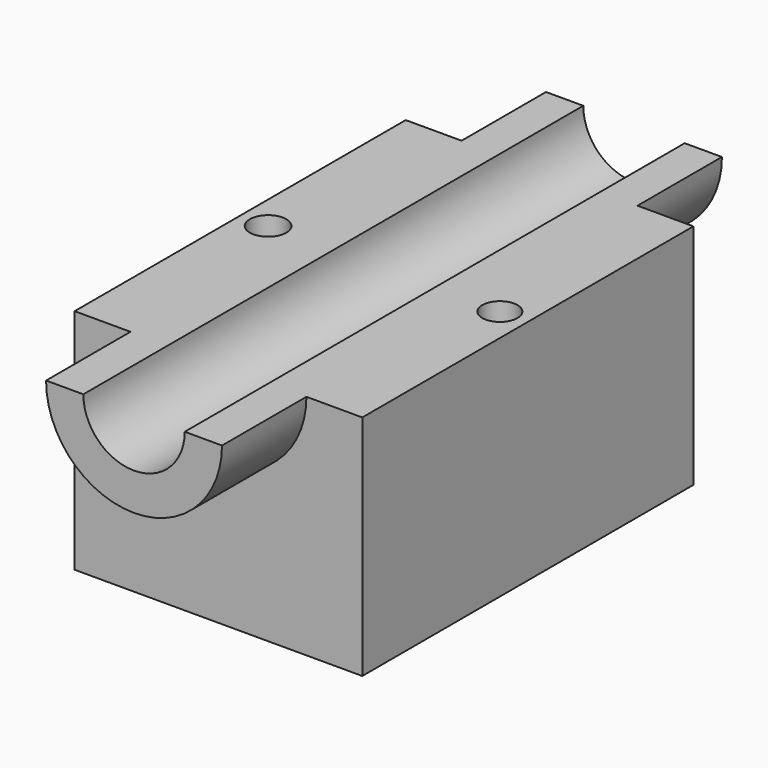
from build123d import *

# Parameters (mm, degrees)
F1_DEPTH = 134.62
F2_DEPTH = 89.154
F3_R     = 7.871318
F5_DEPTH = 98.0821
F4_R     = 7.580211
F6_DEPTH = 98.0821


with BuildPart() as f1:
    # F0 (on Front) → F1 (new body, symmetric)
    with BuildSketch(Plane.XZ):
        with BuildLine():
            Line((-21.845277, 49.040429), (-37.894871, 49.040429))
            ThreePointArc((-37.894871, 49.040429), (0, 11.145558), (37.894871, 49.040429))
            Line((37.894871, 49.040429), (21.845277, 49.040429))
            ThreePointArc((21.845277, 49.040429), (0, 27.195152), (-21.845277, 49.040429))
        make_face()
    extrude(amount=F1_DEPTH, both=True)

    # F0 (on Front) → F2 (join, symmetric)
    with BuildSketch(Plane.XZ):
        with BuildLine():
            Line((-37.894871, 49.040429), (-61.969265, 49.040429))
            Line((-61.969265, 49.040429), (-61.969265, -49.040429))
            Line((-61.969265, -49.040429), (61.969265, -49.040429))
            Line((61.969265, -49.040429), (61.969265, 49.040429))
            Line((61.969265, 49.040429), (37.894871, 49.040429))
            ThreePointArc((37.894871, 49.040429), (0, 11.145558), (-37.894871, 49.040429))
        make_face()
    extrude(amount=F2_DEPTH, both=True)

    # F3 (on face) → F5 (cut)
    with BuildSketch(Plane.XY.offset(49.040429)):
        with Locations((-49.932068, 0)):
            Circle(F3_R)
    extrude(amount=-F5_DEPTH, mode=Mode.SUBTRACT)

    # F4 (on face) → F6 (cut)
    with BuildSketch(Plane.XY.offset(49.040429)):
        with Locations((49.932068, 0)):
            Circle(F4_R)
    extrude(amount=-F6_DEPTH, mode=Mode.SUBTRACT)


solid = f1.part
